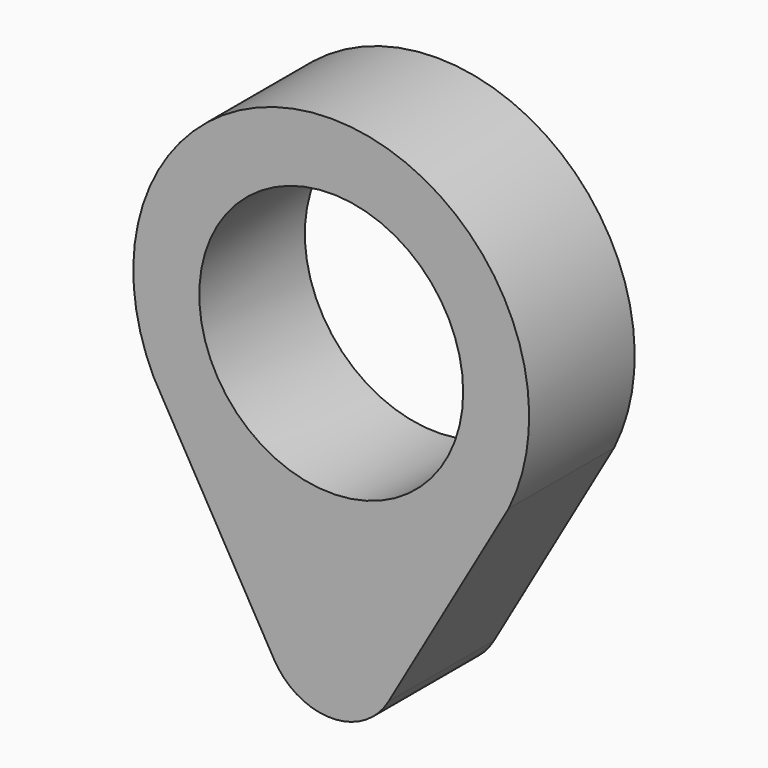
from build123d import *

# Parameters (mm, degrees)
F0_R     = 12.7
F1_DEPTH = 12.7


with BuildPart() as f1:
    # F0 (on Front) → F1 (new body)
    with BuildSketch(Plane.XZ):
        with BuildLine():
            Line((-15.887629, -10.51122), (-5.504633, -28.565677))
            ThreePointArc((-5.504633, -28.565677), (0, -31.75), (5.504633, -28.565677))
            Line((5.504633, -28.565677), (17.075518, -8.445661))
            ThreePointArc((17.075518, -8.445661), (0, 19.05), (-17.075518, -8.445661))
            Line((-17.075518, -8.445661), (-15.887629, -10.51122))
        make_face()
        Circle(F0_R, mode=Mode.SUBTRACT)
    extrude(amount=F1_DEPTH)


solid = f1.part
